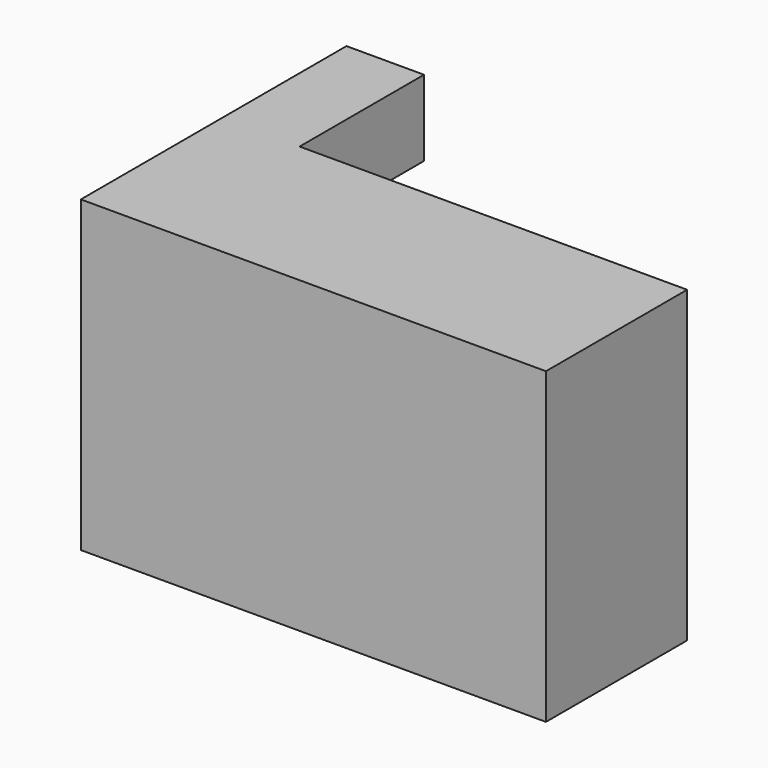
from build123d import *

# Parameters (mm, degrees)
F1_DEPTH = 25.4
F2_W     = 11.126053
F2_H     = 14.237147
F3_DEPTH = 85.09


with BuildPart() as f1:
    # F0 (on Top) → F1 (new body)
    with BuildSketch(Plane.XY):
        Polygon((6.37973, 0), (0, 0), (0, -27.317604), (38.265776, -27.317604), (38.265776, -12.795988), (6.37973, -12.795988), align=None)
    extrude(amount=F1_DEPTH)

    # F2 (on Right) → F3 (cut, symmetric)
    with BuildSketch(Plane.YZ):
        with Locations((-5.563026, 12.033335)):
            Rectangle(F2_W, F2_H)
    extrude(amount=F3_DEPTH, both=True, mode=Mode.SUBTRACT)


solid = f1.part
